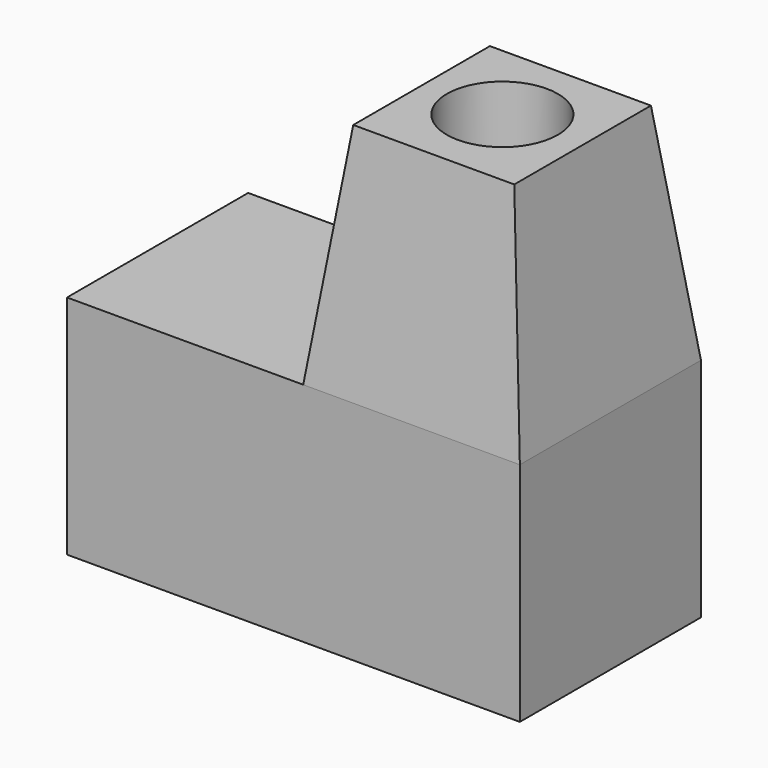
from build123d import *

# Parameters (mm, degrees)
F0_W     = 60
F0_H     = 30
F1_DEPTH = 30
F2_W     = 28.7048730254
F2_H     = 30
F3_DEPTH = 30
F3_TAPER = 7
F4_R     = 7.3545492497
F5_DEPTH = 30


with BuildPart() as f1:
    # F0 (on Front) → F1 (new body)
    with BuildSketch(Plane.XZ):
        with Locations((-1.2951269746, 1.9989533018)):
            Rectangle(F0_W, F0_H)
    extrude(amount=F1_DEPTH)

    # F2 (on face) → F3 (join)
    with BuildSketch(Plane.XY.offset(16.9989533018)):
        with Locations((14.3524365127, -15)):
            Rectangle(F2_W, F2_H)
    extrude(amount=F3_DEPTH, taper=F3_TAPER)

    # F4 (on face) → F5 (cut)
    with BuildSketch(Plane.XY.offset(46.9989533018)):
        with Locations((14.2463864759, -14.8219969124)):
            Circle(F4_R)
    extrude(amount=-F5_DEPTH, mode=Mode.SUBTRACT)


solid = f1.part
